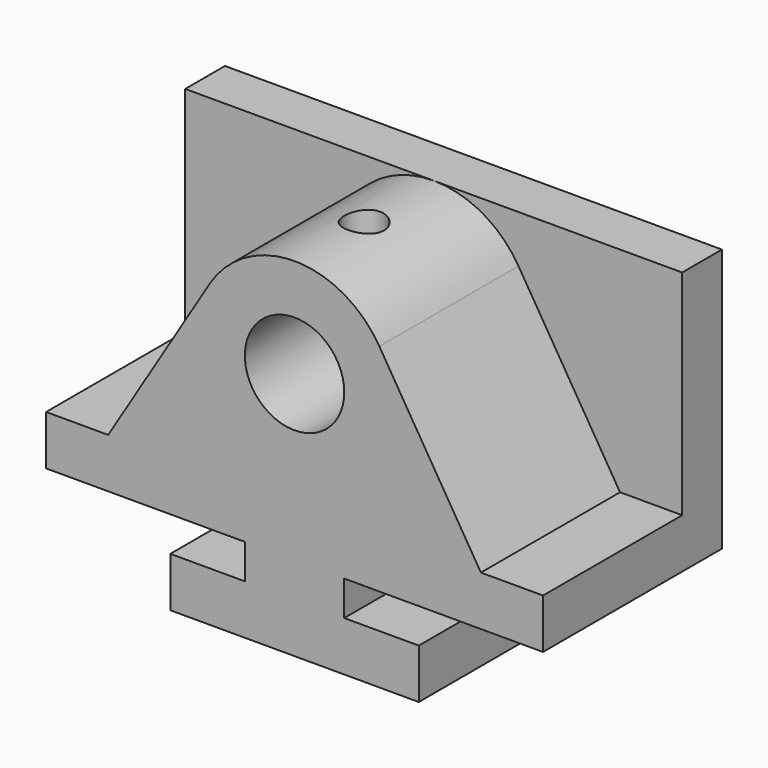
from build123d import *

# Parameters (mm, degrees)
F0_R     = 12.7
F1_DEPTH = 44.45
F2_W     = 127
F2_H     = 67.31
F3_DEPTH = 12.7
F4_R     = 5.08
F5_DEPTH = 13.7612578348


with BuildPart() as f1:
    # F0 (on Front) → F1 (new body)
    with BuildSketch(Plane.XZ):
        with BuildLine():
            Line((-31.75, 12.7), (-31.75, 0))
            Line((-31.75, 0), (31.75, 0))
            Line((31.75, 0), (31.75, 12.7))
            Line((31.75, 12.7), (12.7, 12.7))
            Line((12.7, 12.7), (12.7, 21.59))
            Line((12.7, 21.59), (63.5, 21.59))
            Line((63.5, 21.59), (63.5, 34.29))
            Line((63.5, 34.29), (47.625, 34.29))
            Line((47.625, 34.29), (21.6717633531, 76.7474402496))
            ThreePointArc((21.6717633531, 76.7474402496), (0, 88.9), (-21.6717633531, 76.7474402496))
            Line((-21.6717633531, 76.7474402496), (-47.625, 34.29))
            Line((-47.625, 34.29), (-63.5, 34.29))
            Line((-63.5, 34.29), (-63.5, 21.59))
            Line((-63.5, 21.59), (-12.7, 21.59))
            Line((-12.7, 21.59), (-12.7, 12.7))
            Line((-12.7, 12.7), (-31.75, 12.7))
        make_face()
        with Locations((0, 63.5)):
            Circle(F0_R, mode=Mode.SUBTRACT)
    extrude(amount=F1_DEPTH)

    # F2 (on face) → F3 (join)
    with BuildSketch(Plane(origin=(0, 0, 0), x_dir=(-1, 0, 0), z_dir=(0, 1, 0))):
        with Locations((0, 55.245)):
            Rectangle(F2_W, F2_H)
        Polygon((12.7, 21.59), (-12.7, 21.59), (-12.7, 12.7), (-31.75, 12.7), (-31.75, 0), (31.75, 0), (31.75, 12.7), (12.7, 12.7), align=None)
    extrude(amount=F3_DEPTH)

    # F4 (on face) → F5 (cut, through all)
    with BuildSketch(Plane.XY.offset(88.9)):
        with Locations((0, -22.225)):
            Circle(F4_R)
    extrude(amount=-F5_DEPTH, mode=Mode.SUBTRACT)


solid = f1.part
